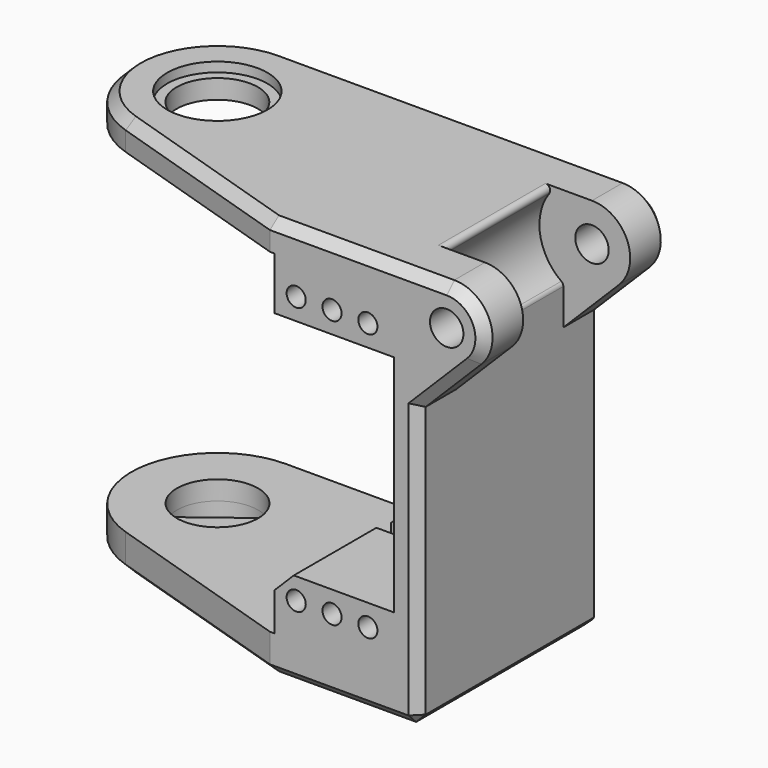
from build123d import *

# Parameters (mm, degrees)
SKETCH016_R            = 4.25
PAD015_DEPTH           = 30
PAD014_DEPTH           = 3
PRISM008_DEPTH         = 10
PRISM008_ROLL_ANGLE    = 90
PAD011_DEPTH           = 15
SKETCH010_R            = 1
PAD010_DEPTH           = 22.5
CYLINDER017_R          = 4.25
CYLINDER017_DEPTH      = 10
CYLINDER016_R          = 5.25
CYLINDER016_DEPTH      = 10
CYLINDER014_R          = 1.75
CYLINDER014_DEPTH      = 36
CYLINDER014_ROLL_ANGLE = -90
PAD004_DEPTH           = 5
CHAMFER002_SIZE        = 1
CYLINDER012_R          = 1.75
CYLINDER012_DEPTH      = 11
CYLINDER012_ROLL_ANGLE = 90
CYLINDER013_R          = 5.5
CYLINDER013_DEPTH      = 14
CYLINDER013_ROLL_ANGLE = -90
BOX010_W               = 35
BOX010_H               = 60
BOX010_DEPTH           = 35
PAD003_DEPTH           = 42
FILLET002_R            = 0.5
CHAMFER003_SIZE        = 1
CHAMFER006_SIZE        = 2
CHAMFER007_SIZE        = 1


with BuildPart() as pad015:
    # Sketch016 → Pad015 (new body)
    with BuildSketch(Plane(origin=(23.25, 34, -10), x_dir=(-0.996195, -0.087156, 0), z_dir=(0, 0, 1))):
        with Locations((47, 7)):
            Circle(SKETCH016_R)
    extrude(amount=PAD015_DEPTH)


with BuildPart() as fusion011:
    # Sketch014 → Pad014 (new body)
    with BuildSketch(Plane(origin=(23.25, 34, -10), x_dir=(-0.996195, -0.087156, 0), z_dir=(0, 0, 1))):
        with BuildLine():
            ThreePointArc((49.709474, 10.274332), (43.52198, 9.442514), (44.839693, 3.340003))
            Line((44.839693, 3.340003), (61.15095, -6.287705))
            ThreePointArc((61.15095, -6.287705), (64.799282, -5.499923), (64.301984, -1.800786))
            Line((49.709474, 10.274332), (64.301984, -1.800786))
        make_face()
    extrude(amount=PAD014_DEPTH)

    # Fusion011: union Pad015
    add(pad015.part)


with BuildPart() as fake_axis_nut_room:
    # Prism008 → Prism008 (new body)
    with BuildSketch(Plane.XY):
        Polygon((3.2, 0), (1.6, 2.771281), (-1.6, 2.771281), (-3.2, 0), (-1.6, -2.771281), (1.6, -2.771281), align=None)
    extrude(amount=PRISM008_DEPTH)


with BuildPart() as fake_axis_nut_room_1:
    # Prism008 roll: moved
    add(fake_axis_nut_room.part.rotate(Axis((0, 0, 0), (1, 0, 0)), PRISM008_ROLL_ANGLE))


with BuildPart() as fake_axis_nut_room_2:
    # Prism008 placement: moved
    add(fake_axis_nut_room_1.part.moved(Location((-47, 25.5, 7))))


with BuildPart() as pad011:
    # Sketch011 → Pad011 (new body)
    with BuildSketch(Plane(origin=(0, 0, -10), x_dir=(1, 0, 0), z_dir=(0, 0, -1))):
        with BuildLine():
            ThreePointArc((-48.5, -22.8), (-50.7, -25), (-48.5, -27.2))
            Line((-48.5, -27.2), (-39.5, -27.2))
            ThreePointArc((-39.5, -27.2), (-37.3, -25), (-39.5, -22.8))
            Line((-48.5, -22.8), (-39.5, -22.8))
        make_face()
    extrude(amount=-PAD011_DEPTH)


with BuildPart() as pad010:
    # Sketch010 → Pad010 (new body)
    with BuildSketch(Plane(origin=(0, 41, 0), x_dir=(-1, 0, 0), z_dir=(0, 1, 0))):
        with Locations((43.25, 26.75)):
            Circle(SKETCH010_R)
        with Locations((50.75, 26.75)):
            Circle(SKETCH010_R)
        with Locations((43.25, -1.25)):
            Circle(SKETCH010_R)
        with Locations((50.75, -1.25)):
            Circle(SKETCH010_R)
        with Locations((47, -1.25)):
            Circle(SKETCH010_R)
        with Locations((47, 26.75)):
            Circle(SKETCH010_R)
        Polygon((40.5, 24.5), (53.5, 24.5), (53.5, 1), (40.5, 1), (30.5, 1), (30.5, 24.5), align=None)
    extrude(amount=-PAD010_DEPTH)


with BuildPart() as cylinder017:
    # Cylinder017 → Cylinder017 (new body)
    with BuildSketch(Plane.XY.offset(-5)):
        Circle(CYLINDER017_R)
    extrude(amount=CYLINDER017_DEPTH)


with BuildPart() as fusion008:
    # Cylinder016 → Cylinder016 (new body)
    with BuildSketch(Plane.XY):
        Circle(CYLINDER016_R)
    extrude(amount=CYLINDER016_DEPTH)

    # Fusion008: union Cylinder017
    add(cylinder017.part)


with BuildPart() as fusion008_1:
    # Fusion008 placement: moved
    add(fusion008.part.moved(Location((-23, 23, 32))))


with BuildPart() as cilindro014:
    # Cylinder014 → Cylinder014 (new body)
    with BuildSketch(Plane.XY):
        Circle(CYLINDER014_R)
    extrude(amount=CYLINDER014_DEPTH)


with BuildPart() as cilindro014_1:
    # Cylinder014 roll: moved
    add(cilindro014.part.rotate(Axis((0, 0, 0), (1, 0, 0)), CYLINDER014_ROLL_ANGLE))


with BuildPart() as cilindro014_2:
    # Cylinder014 placement: moved
    add(cilindro014_1.part.moved(Location((-59, 8, 29))))


with BuildPart() as pad004:
    # Sketch004 → Pad004 (new body)
    with BuildSketch(Plane(origin=(0, 14, 0), x_dir=(-1, 0, 0), z_dir=(0, 1, 0))):
        with BuildLine():
            ThreePointArc((61.828427, 26.171573), (62.695518, 30.530734), (59, 33))
            Line((59, 33), (54, 33))
            Line((54, 33), (54, 18.343146))
            Line((54, 18.343146), (61.828427, 26.171573))
        make_face()
    extrude(amount=PAD004_DEPTH)


with BuildPart() as chamfer002:
    # Clone006 base: copy of Pad004
    add(pad004.part)


with BuildPart() as chamfer002_1:
    # Clone006 placement: moved
    add(chamfer002.part.moved(Location((0, 19, 0))))

    # Fusion006: union Pad004
    add(pad004.part)

    # Chamfer002
    chamfer002_edges = [chamfer002_1.edges().sort_by_distance(p)[0] for p in [
        (-62.695518, 14, 30.530734),
        (-62.695518, 38, 30.530734),
    ]]
    chamfer(chamfer002_edges, length=CHAMFER002_SIZE)


with BuildPart() as cilindro012:
    # Cylinder012 → Cylinder012 (new body)
    with BuildSketch(Plane.XY):
        Circle(CYLINDER012_R)
    extrude(amount=CYLINDER012_DEPTH)


with BuildPart() as cilindro012_1:
    # Cylinder012 roll: moved
    add(cilindro012.part.rotate(Axis((0, 0, 0), (1, 0, 0)), CYLINDER012_ROLL_ANGLE))


with BuildPart() as cilindro012_2:
    # Cylinder012 placement: moved
    add(cilindro012_1.part.moved(Location((-47, 23, 7))))


with BuildPart() as cilindro013:
    # Cylinder013 → Cylinder013 (new body)
    with BuildSketch(Plane.XY):
        Circle(CYLINDER013_R)
    extrude(amount=CYLINDER013_DEPTH)


with BuildPart() as cilindro013_1:
    # Cylinder013 roll: moved
    add(cilindro013.part.rotate(Axis((0, 0, 0), (1, 0, 0)), CYLINDER013_ROLL_ANGLE))


with BuildPart() as cilindro013_2:
    # Cylinder013 placement: moved
    add(cilindro013_1.part.moved(Location((-59, 19, 29))))


with BuildPart() as cubo010:
    # Box010 → Box010 (new body)
    with BuildSketch(Plane(origin=(-41, 0, -5), x_dir=(1, 0, 0), z_dir=(0, 0, 1))):
        with Locations((17.5, 30)):
            Rectangle(BOX010_W, BOX010_H)
    extrude(amount=BOX010_DEPTH)


with BuildPart() as clone_of_bracket:
    # Sketch003 → Pad003 (new body)
    with BuildSketch(Plane.XY.offset(-9)):
        with BuildLine():
            ThreePointArc((-22.999967, 14), (-14.106152, 21.621786), (-20.276052, 31.577885))
            Line((-40.499967, 38), (-20.276052, 31.577885))
            Line((-55.999967, 38), (-40.499967, 38))
            Line((-55.999967, 14), (-55.999967, 38))
            Line((-22.999967, 14), (-55.999967, 14))
        make_face()
    extrude(amount=PAD003_DEPTH)

    # Cut007: cut Cubo010
    add(cubo010.part, mode=Mode.SUBTRACT)

    # Cut008: cut Cilindro013
    add(cilindro013_2.part, mode=Mode.SUBTRACT)

    # Fillet002
    fillet002_edges = [clone_of_bracket.edges().sort_by_distance(p)[0] for p in [
        (-55.999967, 26, 24.390249),
        (-55.225083, 26, 33),
    ]]
    fillet(fillet002_edges, radius=FILLET002_R)

    # Chamfer003
    chamfer003_edges = [clone_of_bracket.edges().sort_by_distance(p)[0] for p in [
        (-55.999967, 14, 12),
        (-55.999967, 26, -9),
        (-55.999967, 38, 12),
        (-39.499967, 14, 33),
        (-14.106152, 21.621786, 33),
        (-48.249967, 38, 33),
        (-48.249967, 38, -9),
    ]]
    chamfer(chamfer003_edges, length=CHAMFER003_SIZE)

    # Cut010: cut Cilindro012
    add(cilindro012_2.part, mode=Mode.SUBTRACT)

    # Fusion007: union Chamfer002
    add(chamfer002_1.part)

    # Cut011: cut Cilindro014
    add(cilindro014_2.part, mode=Mode.SUBTRACT)

    # Cut012: cut Fusion008
    add(fusion008_1.part, mode=Mode.SUBTRACT)

    # Cut015: cut Pad010
    add(pad010.part, mode=Mode.SUBTRACT)

    # Chamfer006
    chamfer006_edges = [clone_of_bracket.edges().sort_by_distance(p)[0] for p in [
        (-41, 28.25, 1),
    ]]
    chamfer(chamfer006_edges, length=CHAMFER006_SIZE)

    # Cut016: cut Pad011
    add(pad011.part, mode=Mode.SUBTRACT)

    # Chamfer007
    chamfer007_edges = [clone_of_bracket.edges().sort_by_distance(p)[0] for p in [
        (-14.106152, 21.621786, -9),
    ]]
    chamfer(chamfer007_edges, length=CHAMFER007_SIZE)

    # Cut017: cut fake_axis_nut_room
    add(fake_axis_nut_room_2.part, mode=Mode.SUBTRACT)

    # Cut020: cut Fusion011
    add(fusion011.part, mode=Mode.SUBTRACT)


with BuildPart() as part_mirroring017:
    # Part__Mirroring017: instance of Clone of bracket
    add(clone_of_bracket.part.mirror(Plane(origin=(0, 0, 0), x_dir=(0, -1, 0), z_dir=(1, 0, 0))))


with BuildPart() as part_mirroring025:
    # Part__Mirroring025: instance of Part__Mirroring017
    add(part_mirroring017.part.mirror(Plane(origin=(0, 0, 0), x_dir=(1, 0, 0), z_dir=(0, 1, 0))))


solid = part_mirroring025.part
